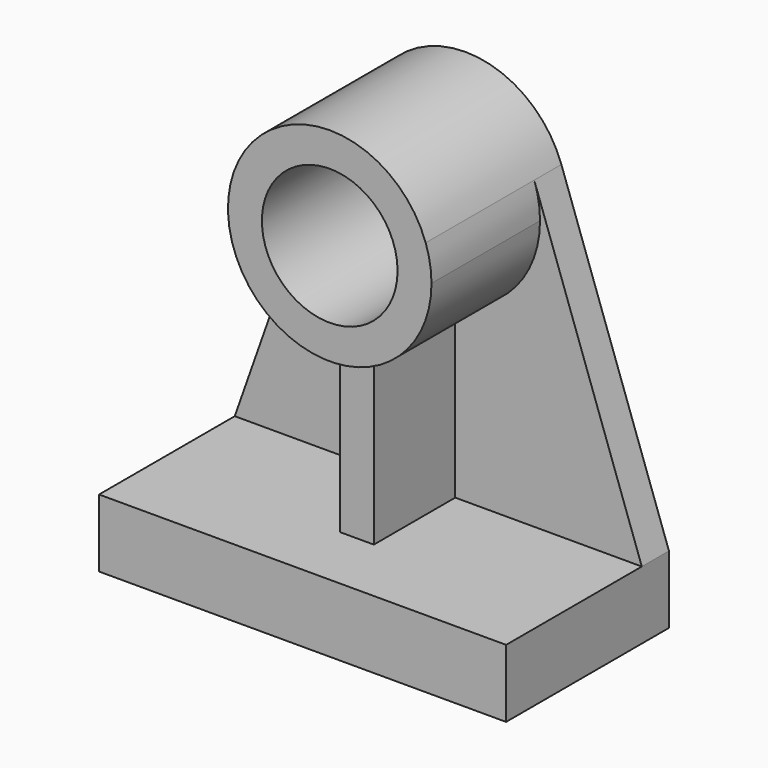
from build123d import *

# Parameters (mm, degrees)
F0_R     = 50.8
F1_DEPTH = 127
F2_DEPTH = 25.4
F3_DEPTH = 152.4
F4_DEPTH = 101.6


with BuildPart() as f1:
    # F0 (on Front) → F1 (new body)
    with BuildSketch(Plane.XZ):
        with BuildLine():
            ThreePointArc((12.7, -75.134213), (58.198711, -49.186888), (76.2, 0))
            ThreePointArc((76.2, 0), (75.109226, 12.846949), (71.868134, 25.3261))
            ThreePointArc((71.868134, 25.3261), (0, 76.2), (-71.868134, 25.3261))
            ThreePointArc((-71.868134, 25.3261), (-65.658289, -38.670778), (-12.7, -75.134213))
            ThreePointArc((-12.7, -75.134213), (0, -76.2), (12.7, -75.134213))
        make_face()
        Circle(F0_R, mode=Mode.SUBTRACT)
    extrude(amount=F1_DEPTH)

    # F0 (on Front) → F2 (join)
    with BuildSketch(Plane.XZ):
        with BuildLine():
            ThreePointArc((-12.7, -75.134213), (-65.658289, -38.670778), (-71.868134, 25.3261))
            Line((-71.868134, 25.3261), (-152.4, -203.2))
            Line((-152.4, -203.2), (-12.7, -203.2))
            Line((-12.7, -203.2), (-12.7, -75.134213))
        make_face()
        with BuildLine():
            ThreePointArc((71.868134, 25.3261), (75.109226, 12.846949), (76.2, 0))
            ThreePointArc((76.2, 0), (58.198711, -49.186888), (12.7, -75.134213))
            Line((12.7, -75.134213), (12.7, -203.2))
            Line((12.7, -203.2), (152.4, -203.2))
            Line((152.4, -203.2), (71.868134, 25.3261))
        make_face()
    extrude(amount=F2_DEPTH)

    # F0 (on Front) → F3 (join)
    with BuildSketch(Plane.XZ):
        Polygon((152.4, -254), (152.4, -203.2), (12.7, -203.2), (-12.7, -203.2), (-152.4, -203.2), (-152.4, -254), align=None)
    extrude(amount=F3_DEPTH)

    # F0 (on Front) → F4 (join)
    with BuildSketch(Plane.XZ):
        with BuildLine():
            Line((12.7, -203.2), (12.7, -75.134213))
            ThreePointArc((12.7, -75.134213), (0, -76.2), (-12.7, -75.134213))
            Line((-12.7, -75.134213), (-12.7, -203.2))
            Line((-12.7, -203.2), (12.7, -203.2))
        make_face()
    extrude(amount=F4_DEPTH)


solid = f1.part
